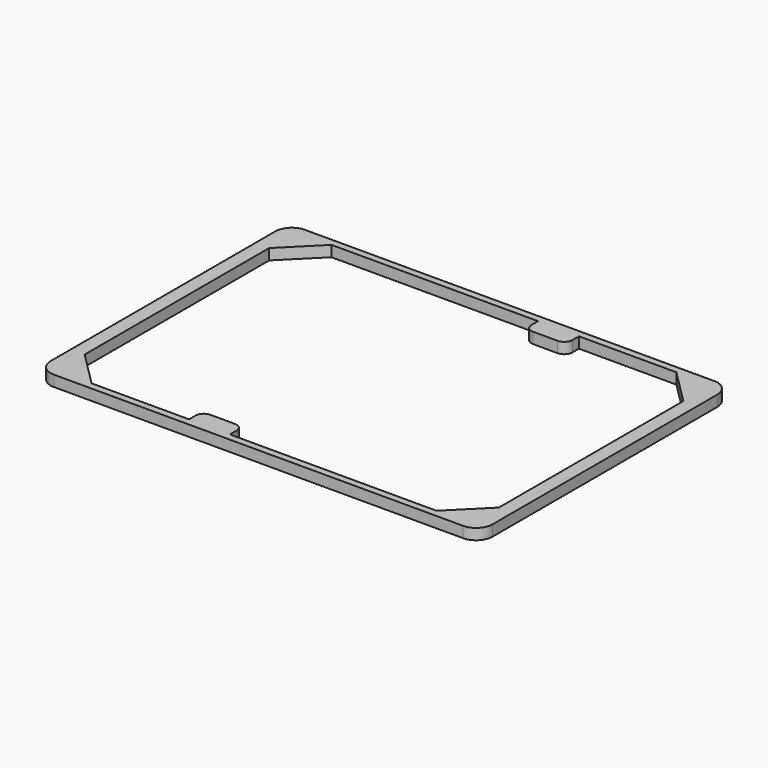
from build123d import *

# Parameters (mm, degrees)
F0_W     = 162
F0_H     = 115
F0_W_2   = 151.84
F0_H_2   = 109.92
F1_DEPTH = 4
F2_R     = 6
F3_SIZE  = 12.7
F4_W     = 15
F4_H     = 4
F5_DEPTH = 6
F6_W     = 15
F6_H     = 4
F7_DEPTH = 6
F8_R     = 3


with BuildPart() as f1:
    # F0 (on Top) → F1 (new body)
    with BuildSketch(Plane.XY):
        with Locations((81, 57.5)):
            Rectangle(F0_W, F0_H)
        with Locations((81, 57.5)):
            Rectangle(F0_W_2, F0_H_2, mode=Mode.SUBTRACT)
    extrude(amount=F1_DEPTH)

    # F2
    f2_edges = [f1.edges().sort_by_distance(p)[0] for p in [
        (0, 115, 2),
        (162, 115, 2),
        (162, 0, 2),
        (0, 0, 2),
    ]]
    fillet(f2_edges, radius=F2_R)

    # F3
    f3_edges = [f1.edges().sort_by_distance(p)[0] for p in [
        (5.08, 112.46, 2),
        (156.92, 2.54, 2),
        (156.92, 112.46, 2),
        (5.08, 2.54, 2),
    ]]
    chamfer(f3_edges, length=F3_SIZE)

    # F4 (on face) → F5 (join)
    with BuildSketch(Plane(origin=(0, 2.54, 0), x_dir=(-1, 0, 0), z_dir=(0, 1, 0))):
        with Locations((-61, 2)):
            Rectangle(F4_W, F4_H)
    extrude(amount=F5_DEPTH)

    # F6 (on face) → F7 (join)
    with BuildSketch(Plane.XZ.offset(-112.46)):
        with Locations((101, 2)):
            Rectangle(F6_W, F6_H)
    extrude(amount=F7_DEPTH)

    # F8
    f8_edges = [f1.edges().sort_by_distance(p)[0] for p in [
        (93.5, 106.46, 2),
        (108.5, 106.46, 2),
        (68.5, 8.54, 2),
        (53.5, 8.54, 2),
    ]]
    fillet(f8_edges, radius=F8_R)


solid = f1.part
